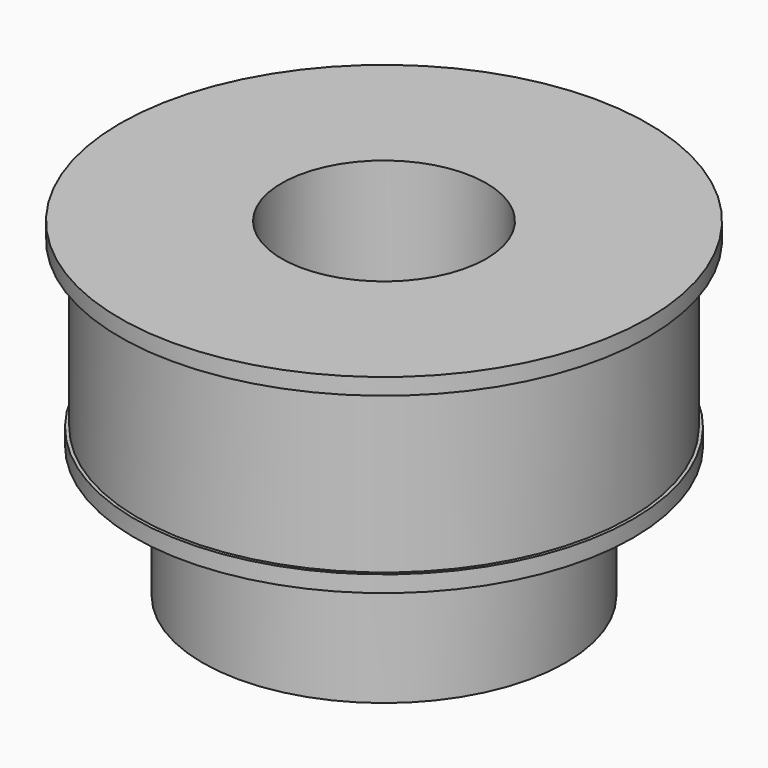
from build123d import *

# Parameters (mm, degrees)
SKETCH_R        = 8
SKETCH_R_2      = 3.1
PAD_DEPTH       = 10
SKETCH001_R     = 15.500543
SKETCH001_R_2   = 7.45
POCKET_DEPTH    = 9.5
SKETCH002_R     = 11.210936
SKETCH002_R_2   = 5.5
POCKET001_DEPTH = 4
SKETCH003_R     = 7.55
SKETCH003_R_2   = 6.749921
PAD001_DEPTH    = 0.5


with BuildPart() as part:
    # Sketch → Pad (new body)
    with BuildSketch(Plane.XY):
        Circle(SKETCH_R)
        Circle(SKETCH_R_2, mode=Mode.SUBTRACT)
    extrude(amount=PAD_DEPTH)

    # Sketch001 (on Face3 of Pad) → Pocket (cut)
    with BuildSketch(Plane(origin=(0, 0, 0), x_dir=(1, 0, 0), z_dir=(0, 0, -1))):
        Circle(SKETCH001_R)
        Circle(SKETCH001_R_2, mode=Mode.SUBTRACT)
    extrude(amount=-POCKET_DEPTH, mode=Mode.SUBTRACT)

    # Sketch002 (on Face6 of Pocket) → Pocket001 (cut)
    with BuildSketch(Plane(origin=(0, 0, 0), x_dir=(1, 0, 0), z_dir=(0, 0, -1))):
        Circle(SKETCH002_R)
        Circle(SKETCH002_R_2, mode=Mode.SUBTRACT)
    extrude(amount=-POCKET001_DEPTH, mode=Mode.SUBTRACT)

    # Sketch003 (on Face6 of Pocket001) → Pad001 (join)
    with BuildSketch(Plane(origin=(0, 0, 4), x_dir=(1, 0, 0), z_dir=(0, 0, -1))):
        Circle(SKETCH003_R)
        Circle(SKETCH003_R_2, mode=Mode.SUBTRACT)
    extrude(amount=-PAD001_DEPTH)


solid = part.part
